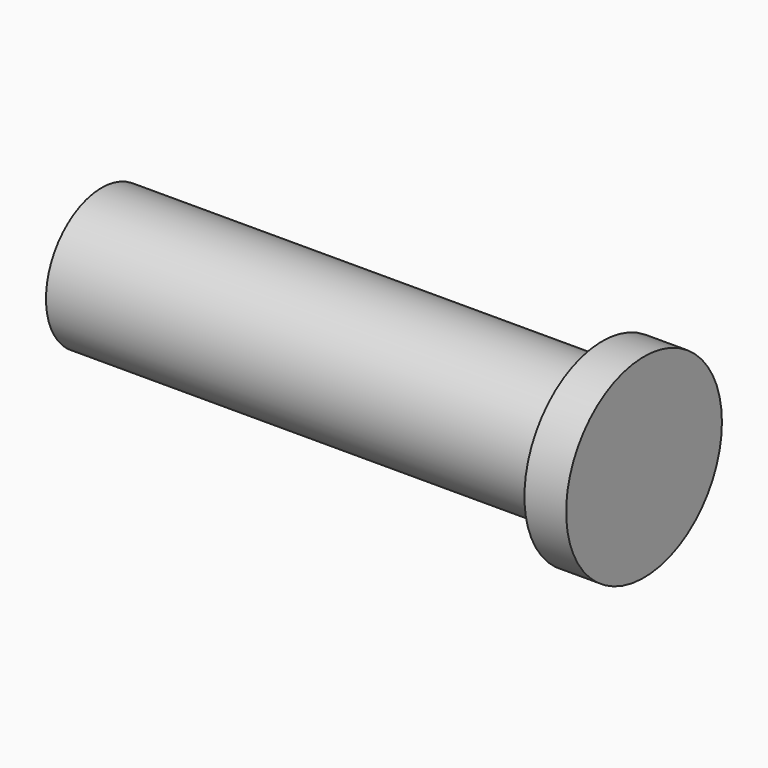
from build123d import *

# Parameters (mm, degrees)
F0_R     = 6.35
F1_DEPTH = 45.72
F2_R     = 8.89
F2_R_2   = 6.35
F3_DEPTH = 3.81


with BuildPart() as f1:
    # F0 (on Right) → F1 (new body)
    with BuildSketch(Plane.YZ):
        Circle(F0_R)
    extrude(amount=F1_DEPTH)

    # F2 (on face) → F3 (join)
    with BuildSketch(Plane.YZ.offset(45.72)):
        Circle(F2_R)
        Circle(F2_R_2, mode=Mode.SUBTRACT)
        Circle(F2_R_2)
    extrude(amount=F3_DEPTH)


solid = f1.part
